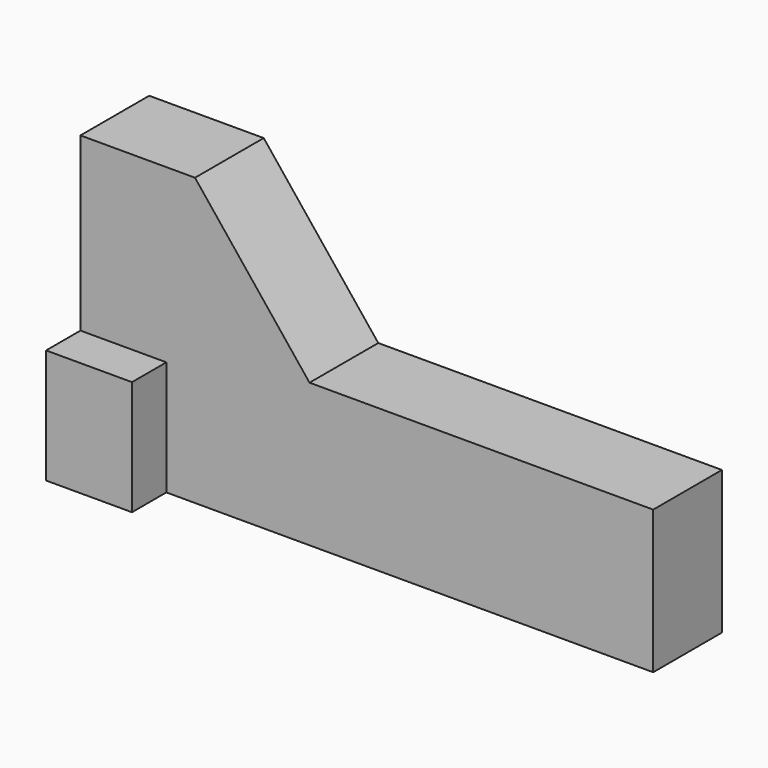
from build123d import *

# Parameters (mm, degrees)
F1_DEPTH      = 19.05
F2_W          = 19.05
F2_H          = 25.4
F3_DEPTH      = 9.525
F3_DEPTH_BACK = 28.575


with BuildPart() as f1:
    # F0 (on Front) → F1 (new body)
    with BuildSketch(Plane.XZ):
        Polygon((-71.369838, 22.256227), (-71.369838, -41.243773), (55.630162, -41.243773), (55.630162, -9.493773), (-20.569838, -9.493773), (-45.969838, 22.256227), align=None)
    extrude(amount=F1_DEPTH)

    # F2 (on face) → F3 (join, two sides)
    with BuildSketch(Plane.XZ.offset(19.05)) as f3_sk:
        with Locations((-61.844838, -28.543773)):
            Rectangle(F2_W, F2_H)
    extrude(amount=F3_DEPTH)
    extrude(f3_sk.sketch, amount=-F3_DEPTH_BACK)


solid = f1.part
